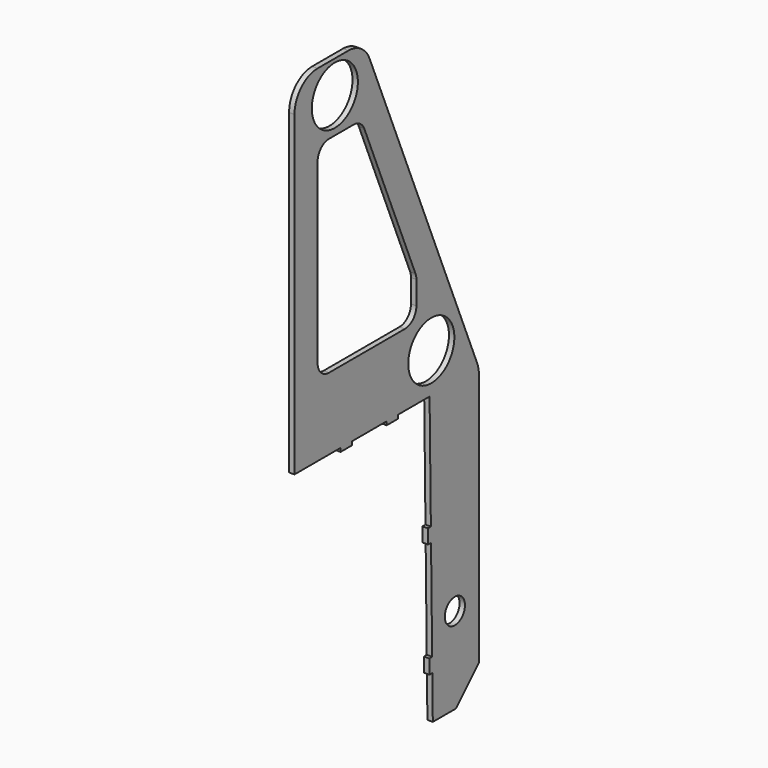
from build123d import *

# Parameters (mm, degrees)
F0_R     = 11.1125
F0_R_2   = 25.4
F1_DEPTH = 4.7625
F2_SIZE  = 25.4


with BuildPart() as f1:
    # F0 (on Right) → F1 (new body)
    with BuildSketch(Plane.YZ):
        with BuildLine():
            Line((-88.9, 0), (-54.349117, 0))
            Line((-54.349117, 0), (-52.93009, -101.55564))
            Line((-52.93009, -101.55564), (-56.10478, -101.6))
            Line((-56.10478, -101.6), (-55.927342, -114.29876))
            Line((-55.927342, -114.29876), (-52.752651, -114.254401))
            Line((-52.752651, -114.254401), (-51.510443, -203.15564))
            Line((-51.510443, -203.15564), (-54.685133, -203.2))
            Line((-54.685133, -203.2), (-54.507695, -215.89876))
            Line((-54.507695, -215.89876), (-51.333005, -215.854401))
            Line((-51.333005, -215.854401), (-50.8, -254))
            Line((-50.8, -254), (0, -254))
            Line((0, -254), (0, -5.08))
            ThreePointArc((0, -5.08), (-0.493251, -0.09865), (-1.953846, 4.689231))
            Line((-1.953846, 4.689231), (-120.487179, 289.169231))
            ThreePointArc((-120.487179, 289.169231), (-129.843948, 300.534077), (-143.933333, 304.8))
            Line((-143.933333, 304.8), (-177.8, 304.8))
            ThreePointArc((-177.8, 304.8), (-195.760512, 297.360512), (-203.2, 279.4))
            Line((-203.2, 279.4), (-203.2, 0))
            Line((-203.2, 0), (-152.4, 0))
            Line((-152.4, 0), (-152.4, -3.175))
            Line((-152.4, -3.175), (-139.7, -3.175))
            Line((-139.7, -3.175), (-139.7, 0))
            Line((-139.7, 0), (-101.6, 0))
            Line((-101.6, 0), (-101.6, -3.175))
            Line((-101.6, -3.175), (-88.9, -3.175))
            Line((-88.9, -3.175), (-88.9, 0))
        make_face()
        with Locations((-26.462256, -177.8)):
            Circle(F0_R, mode=Mode.SUBTRACT)
        with BuildLine():
            Line((-177.8, 76.2), (-177.8, 232.298873))
            ThreePointArc((-177.8, 232.298873), (-174.080256, 241.279129), (-165.1, 244.998873))
            Line((-165.1, 244.998873), (-138.066197, 244.998873))
            ThreePointArc((-138.066197, 244.998873), (-131.021505, 242.865912), (-126.34312, 237.183488))
            Line((-126.34312, 237.183488), (-69.860754, 101.62581))
            ThreePointArc((-69.860754, 101.62581), (-69.130456, 99.231869), (-68.883831, 96.741194))
            Line((-68.883831, 96.741194), (-68.883831, 76.2))
            ThreePointArc((-68.883831, 76.2), (-72.603575, 67.219744), (-81.583831, 63.5))
            Line((-81.583831, 63.5), (-165.1, 63.5))
            ThreePointArc((-165.1, 63.5), (-174.080256, 67.219744), (-177.8, 76.2))
        make_face(mode=Mode.SUBTRACT)
        with Locations((-158.75, 276.225)):
            Circle(F0_R_2, mode=Mode.SUBTRACT)
        with Locations((-52.445168, 34.925)):
            Circle(F0_R_2, mode=Mode.SUBTRACT)
    extrude(amount=F1_DEPTH)

    # F2
    f2_edges = [f1.edges().sort_by_distance(p)[0] for p in [
        (2.38125, 0, -254),
    ]]
    chamfer(f2_edges, length=F2_SIZE)


solid = f1.part
